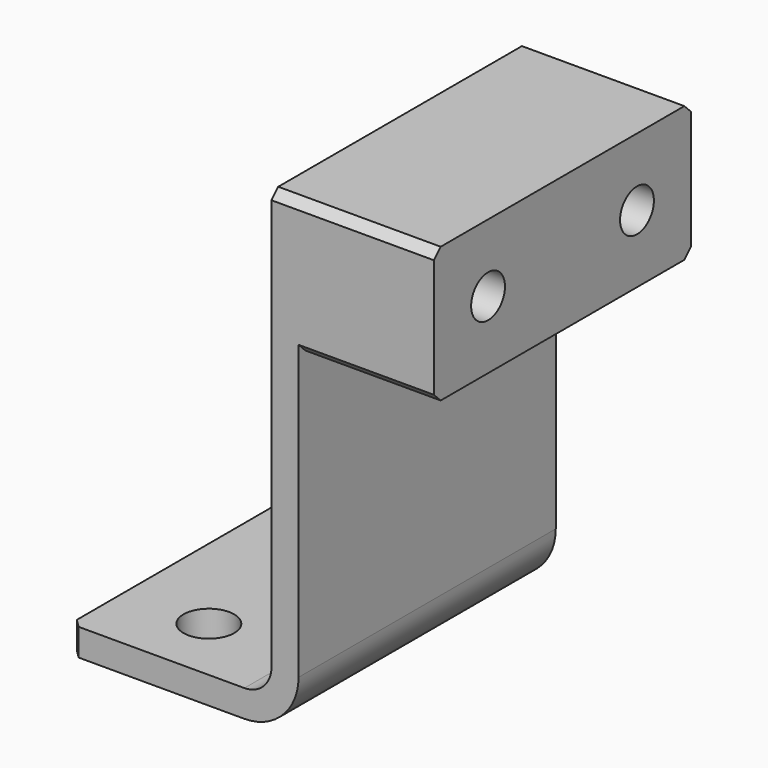
from build123d import *

# Parameters (mm, degrees)
F1_DEPTH = 38
F0_W     = 16
F0_H     = 16
F2_DEPTH = 38
F4_D     = 5
F4_DEPTH = 10
F4_TIP   = 1.5021515476
F6_D     = 6
F7_SIZE  = 1
F8_SIZE  = 1


with BuildPart() as f1:
    # F0 (on Front) → F1 (new body)
    with BuildSketch(Plane.XZ):
        with BuildLine():
            ThreePointArc((187.358939, -148.81538), (191.8844223996, -146.9408633996), (193.758939, -142.41538))
            Line((193.758939, -142.41538), (193.758939, -108.81538))
            Line((193.758939, -108.81538), (193.758939, -92.81538))
            Line((193.758939, -92.81538), (190.558939, -92.81538))
            Line((190.558939, -92.81538), (190.558939, -142.41538))
            ThreePointArc((190.558939, -142.41538), (189.6216806998, -144.6781216998), (187.358939, -145.61538))
            Line((187.358939, -145.61538), (166.758939, -145.61538))
            Line((166.758939, -145.61538), (166.758939, -148.81538))
            Line((166.758939, -148.81538), (187.358939, -148.81538))
        make_face()
    extrude(amount=-F1_DEPTH)

    # F0 (on Front) → F2 (join)
    with BuildSketch(Plane.XZ):
        with Locations((201.758939, -100.81538)):
            Rectangle(F0_W, F0_H)
    extrude(amount=-F2_DEPTH)

    # F4
    with Locations(Plane.YZ.offset(209.758939)):
        with Locations((8, -100.81538), (30, -100.81538)):
            Hole(F4_D / 2, depth=F4_DEPTH)
            with Locations((0, 0, -(F4_DEPTH + F4_TIP / 2))):  # 118° drill point
                Cone(0, F4_D / 2, F4_TIP, mode=Mode.SUBTRACT)

    # F6 (through all)
    with Locations(Plane.XY.offset(-145.61538)):
        with Locations((176.758939, 30), (176.758939, 8)):
            Hole(F6_D / 2)

    # F7
    f7_edges = [f1.edges().sort_by_distance(p)[0] for p in [
        (166.758939, 0, -147.21538),
        (166.758939, 38, -147.21538),
    ]]
    chamfer(f7_edges, length=F7_SIZE)

    # F8
    f8_edges = [f1.edges().sort_by_distance(p)[0] for p in [
        (200.158939, 0, -92.81538),
        (200.158939, 38, -92.81538),
        (201.758939, 38, -108.81538),
        (201.758939, 0, -108.81538),
    ]]
    chamfer(f8_edges, length=F8_SIZE)


solid = f1.part
